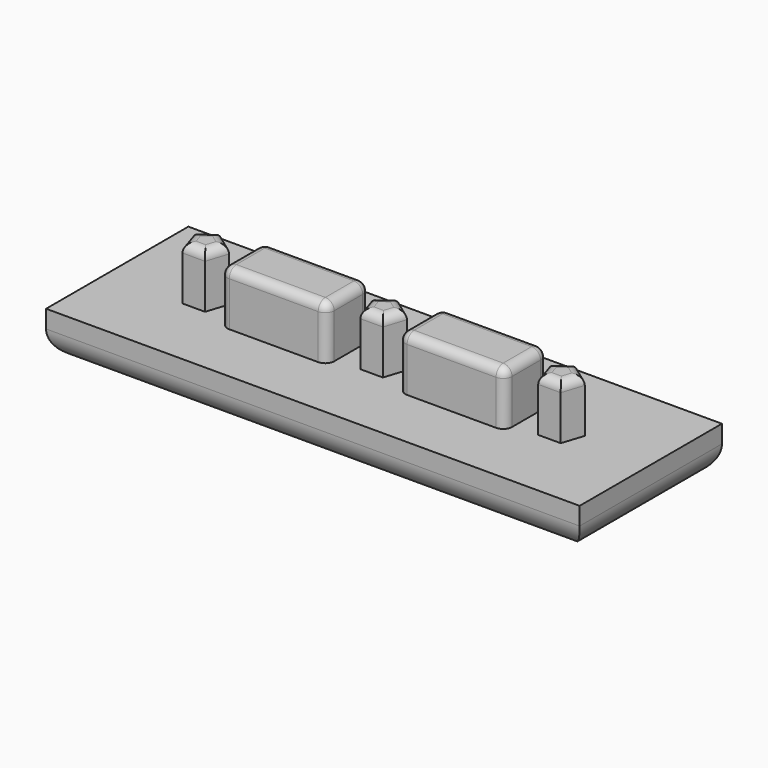
from build123d import *

# Parameters (mm, degrees)
F0_W     = 60
F0_H     = 20
F2_DEPTH = 5
F1_W     = 12
F1_H     = 6
F3_DEPTH = 6
F4_R     = 3
F5_R     = 1


with BuildPart() as f2:
    # F0 (on Top) → F2 (new body)
    with BuildSketch(Plane.XY):
        with Locations((30, 10)):
            Rectangle(F0_W, F0_H)
    extrude(amount=-F2_DEPTH)

    # F1 (on face) → F3 (join)
    with BuildSketch(Plane.XY):
        Polygon((8.736262, 8.260613), (11.263738, 8.260613), (12.044772, 10.664387), (10, 12.15), (7.955228, 10.664387), align=None)
        Polygon((30, 12.15), (27.955228, 10.664387), (28.736262, 8.260613), (31.263738, 8.260613), (32.044772, 10.664387), align=None)
        Polygon((50, 12.15), (47.955228, 10.664387), (48.736262, 8.260613), (51.263738, 8.260613), (52.044772, 10.664387), align=None)
        with Locations((20, 10)):
            Rectangle(F1_W, F1_H)
        with Locations((40, 10)):
            Rectangle(F1_W, F1_H)
    extrude(amount=F3_DEPTH)

    # F4
    f4_edges = [f2.edges().sort_by_distance(p)[0] for p in [
        (0, 10, -5),
        (30, 0, -5),
        (60, 10, -5),
        (30, 20, -5),
    ]]
    fillet(f4_edges, radius=F4_R)

    # F5
    f5_edges = [f2.edges().sort_by_distance(p)[0] for p in [
        (8.977614, 11.407193, 6),
        (8.345745, 9.4625, 6),
        (10, 8.260613, 6),
        (11.654255, 9.4625, 6),
        (11.022386, 11.407193, 6),
        (28.977614, 11.407193, 6),
        (28.345745, 9.4625, 6),
        (30, 8.260613, 6),
        (31.654255, 9.4625, 6),
        (31.022386, 11.407193, 6),
        (51.654255, 9.4625, 6),
        (50, 8.260613, 6),
        (48.345745, 9.4625, 6),
        (48.977614, 11.407193, 6),
        (51.022386, 11.407193, 6),
        (14, 7, 3),
        (26, 7, 3),
        (26, 13, 3),
        (14, 13, 3),
        (34, 13, 3),
        (34, 7, 3),
        (46, 13, 3),
        (46, 7, 3),
        (14, 10, 6),
        (20, 13, 6),
        (26, 10, 6),
        (20, 7, 6),
        (34, 10, 6),
        (40, 13, 6),
        (46, 10, 6),
        (40, 7, 6),
    ]]
    fillet(f5_edges, radius=F5_R)


solid = f2.part
